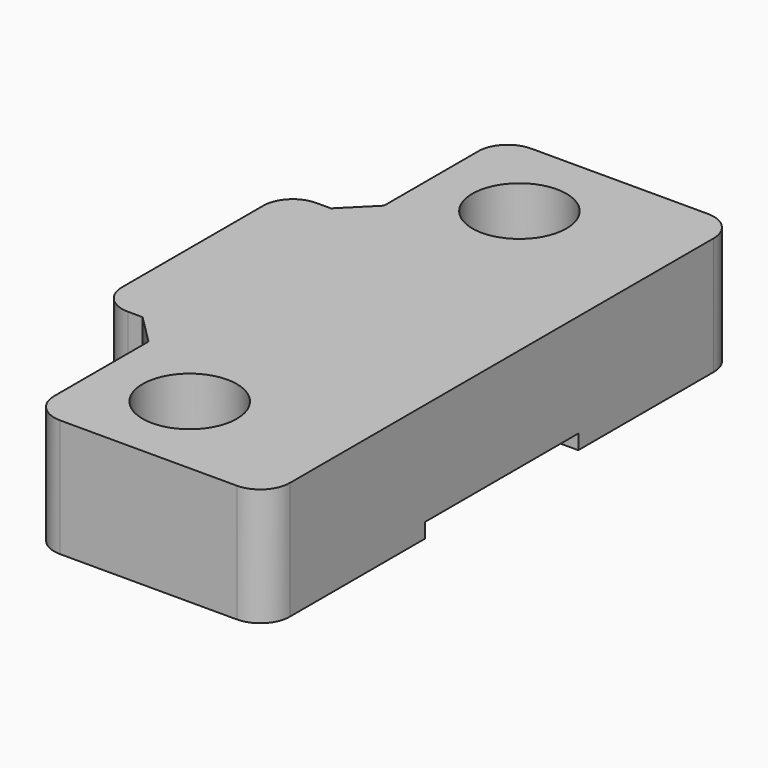
from build123d import *

# Parameters (mm, degrees)
BOX048_W           = 1.2
BOX048_H           = 6.5
BOX048_DEPTH       = 0.5
BOX049_W           = 1.2
BOX049_H           = 6.5
BOX049_DEPTH       = 0.5
BOX044_W           = 1.2
BOX044_H           = 6.5
BOX044_DEPTH       = 0.5
BOX043_W           = 1.2
BOX043_H           = 6.5
BOX043_DEPTH       = 0.5
BOX039_W           = 1.2
BOX039_H           = 6.5
BOX039_DEPTH       = 0.5
BOX045_W           = 1.2
BOX045_H           = 6.5
BOX045_DEPTH       = 0.5
BOX041_W           = 0.8
BOX041_H           = 6.5
BOX041_DEPTH       = 0.5
BOX040_W           = 0.8
BOX040_H           = 6.5
BOX040_DEPTH       = 0.5
BOX038_W           = 0.8
BOX038_H           = 6.5
BOX038_DEPTH       = 0.5
BOX042_W           = 0.8
BOX042_H           = 6.5
BOX042_DEPTH       = 0.5
BOX047_W           = 0.8
BOX047_H           = 6.5
BOX047_DEPTH       = 0.5
BOX046_W           = 3
BOX046_H           = 8
BOX046_DEPTH       = 4
CYLINDER012_R      = 1.6
CYLINDER012_DEPTH  = 10
CYLINDER011_R      = 1.6
CYLINDER011_DEPTH  = 10
BOX008_W           = 8
BOX008_H           = 20
BOX008_DEPTH       = 4
FILLET002_R        = 1
FILLET_R           = 1
CHAMFER008010_SIZE = 1
CHAMFER008011_SIZE = 0.4


with BuildPart() as cube044:
    # Box048 → Box048 (new body)
    with BuildSketch(Plane(origin=(-4.2, -3.25, 0), x_dir=(1, 0, 0), z_dir=(0, 0, 1))):
        with Locations((0.6, 3.25)):
            Rectangle(BOX048_W, BOX048_H)
    extrude(amount=BOX048_DEPTH)


with BuildPart() as cube045:
    # Box049 → Box049 (new body)
    with BuildSketch(Plane(origin=(-6.2, -3.25, 0), x_dir=(1, 0, 0), z_dir=(0, 0, 1))):
        with Locations((0.6, 3.25)):
            Rectangle(BOX049_W, BOX049_H)
    extrude(amount=BOX049_DEPTH)


with BuildPart() as cube040:
    # Box044 → Box044 (new body)
    with BuildSketch(Plane(origin=(1, -3.25, 0), x_dir=(1, 0, 0), z_dir=(0, 0, 1))):
        with Locations((0.6, 3.25)):
            Rectangle(BOX044_W, BOX044_H)
    extrude(amount=BOX044_DEPTH)


with BuildPart() as cube039:
    # Box043 → Box043 (new body)
    with BuildSketch(Plane(origin=(-1, -3.25, 0), x_dir=(1, 0, 0), z_dir=(0, 0, 1))):
        with Locations((0.6, 3.25)):
            Rectangle(BOX043_W, BOX043_H)
    extrude(amount=BOX043_DEPTH)


with BuildPart() as cube035:
    # Box039 → Box039 (new body)
    with BuildSketch(Plane(origin=(-3, -3.25, 0), x_dir=(1, 0, 0), z_dir=(0, 0, 1))):
        with Locations((0.6, 3.25)):
            Rectangle(BOX039_W, BOX039_H)
    extrude(amount=BOX039_DEPTH)


with BuildPart() as fusion001007011052:
    # Box045 → Box045 (new body)
    with BuildSketch(Plane(origin=(3, -3.25, 0), x_dir=(1, 0, 0), z_dir=(0, 0, 1))):
        with Locations((0.6, 3.25)):
            Rectangle(BOX045_W, BOX045_H)
    extrude(amount=BOX045_DEPTH)

    # Fusion001007011047: union Cube040, Cube039, Cube035
    add(cube040.part)
    add(cube039.part)
    add(cube035.part)


with BuildPart() as fusion001007011052_1:
    # Fusion001007011047 placement: moved
    add(fusion001007011052.part.moved(Location((0.8, 0, 0))))

    # Fusion001007011052: union Cube044, Cube045
    add(cube044.part)
    add(cube045.part)


with BuildPart() as cube037:
    # Box041 → Box041 (new body)
    with BuildSketch(Plane(origin=(2.2, -3.25, -0.5), x_dir=(1, 0, 0), z_dir=(0, 0, 1))):
        with Locations((0.4, 3.25)):
            Rectangle(BOX041_W, BOX041_H)
    extrude(amount=BOX041_DEPTH)


with BuildPart() as cube036:
    # Box040 → Box040 (new body)
    with BuildSketch(Plane(origin=(0.2, -3.25, -0.5), x_dir=(1, 0, 0), z_dir=(0, 0, 1))):
        with Locations((0.4, 3.25)):
            Rectangle(BOX040_W, BOX040_H)
    extrude(amount=BOX040_DEPTH)


with BuildPart() as cube034:
    # Box038 → Box038 (new body)
    with BuildSketch(Plane(origin=(-1.8, -3.25, -0.5), x_dir=(1, 0, 0), z_dir=(0, 0, 1))):
        with Locations((0.4, 3.25)):
            Rectangle(BOX038_W, BOX038_H)
    extrude(amount=BOX038_DEPTH)


with BuildPart() as fusion001007011046:
    # Box042 → Box042 (new body)
    with BuildSketch(Plane(origin=(4.2, -3.25, -0.5), x_dir=(1, 0, 0), z_dir=(0, 0, 1))):
        with Locations((0.4, 3.25)):
            Rectangle(BOX042_W, BOX042_H)
    extrude(amount=BOX042_DEPTH)

    # Fusion001007011046: union Cube037, Cube036, Cube034
    add(cube037.part)
    add(cube036.part)
    add(cube034.part)


with BuildPart() as fusion001007011046_1:
    # Fusion001007011046 placement: moved
    add(fusion001007011046.part.moved(Location((-1.2, 0, 0))))


with BuildPart() as fusion001007011049:
    # Box047 → Box047 (new body)
    with BuildSketch(Plane(origin=(-5, -3.25, -0.5), x_dir=(1, 0, 0), z_dir=(0, 0, 1))):
        with Locations((0.4, 3.25)):
            Rectangle(BOX047_W, BOX047_H)
    extrude(amount=BOX047_DEPTH)

    # Fusion001007011049: union Fusion001007011046
    add(fusion001007011046_1.part)


with BuildPart() as cube042:
    # Box046 → Box046 (new body)
    with BuildSketch(Plane(origin=(-5.5, -4, 0), x_dir=(1, 0, 0), z_dir=(0, 0, 1))):
        with Locations((1.5, 4)):
            Rectangle(BOX046_W, BOX046_H)
    extrude(amount=BOX046_DEPTH)


with BuildPart() as cylinder012:
    # Cylinder012 → Cylinder012 (new body)
    with BuildSketch(Plane(origin=(0, -7, 0), x_dir=(1, 0, 0), z_dir=(0, 0, 1))):
        Circle(CYLINDER012_R)
    extrude(amount=CYLINDER012_DEPTH)


with BuildPart() as fusion017:
    # Cylinder011 → Cylinder011 (new body)
    with BuildSketch(Plane(origin=(0, 7, 0), x_dir=(1, 0, 0), z_dir=(0, 0, 1))):
        Circle(CYLINDER011_R)
    extrude(amount=CYLINDER011_DEPTH)

    # Fusion017: union Cylinder012
    add(cylinder012.part)


with BuildPart() as belt_clamp:
    # Box008 → Box008 (new body)
    with BuildSketch(Plane(origin=(-3, -10, 0), x_dir=(1, 0, 0), z_dir=(0, 0, 1))):
        with Locations((4, 10)):
            Rectangle(BOX008_W, BOX008_H)
    extrude(amount=BOX008_DEPTH)

    # Fillet002
    fillet002_edges = [belt_clamp.edges().sort_by_distance(p)[0] for p in [
        (-3, -10, 2),
        (-3, 10, 2),
        (5, -10, 2),
        (5, 10, 2),
    ]]
    fillet(fillet002_edges, radius=FILLET002_R)

    # Cut008004003012001003001009: cut Fusion017
    add(fusion017.part, mode=Mode.SUBTRACT)

    # Fusion001007011048: union Cube042
    add(cube042.part)

    # Fillet
    fillet_edges = [belt_clamp.edges().sort_by_distance(p)[0] for p in [
        (-5.5, -4, 2),
        (-5.5, 4, 2),
    ]]
    fillet(fillet_edges, radius=FILLET_R)

    # Chamfer008010
    chamfer008010_edges = [belt_clamp.edges().sort_by_distance(p)[0] for p in [
        (-3, 4, 2),
        (-3, -4, 2),
    ]]
    chamfer(chamfer008010_edges, length=CHAMFER008010_SIZE)

    # Fusion001007011051: union Fusion001007011049
    add(fusion001007011049.part)

    # Cut008004003012001003001010001023: cut Fusion001007011052
    add(fusion001007011052_1.part, mode=Mode.SUBTRACT)

    # Chamfer008011
    chamfer008011_edges = [belt_clamp.edges().sort_by_distance(p)[0] for p in [
        (-5.468246, 3.25, 0.25),
        (-5.49203, 3.126004, 0.5),
        (-5.5, 0, 0.5),
        (-5.468246, -3.25, 0.25),
        (-5.49203, -3.126004, 0.5),
    ]]
    chamfer(chamfer008011_edges, length=CHAMFER008011_SIZE)


solid = belt_clamp.part
